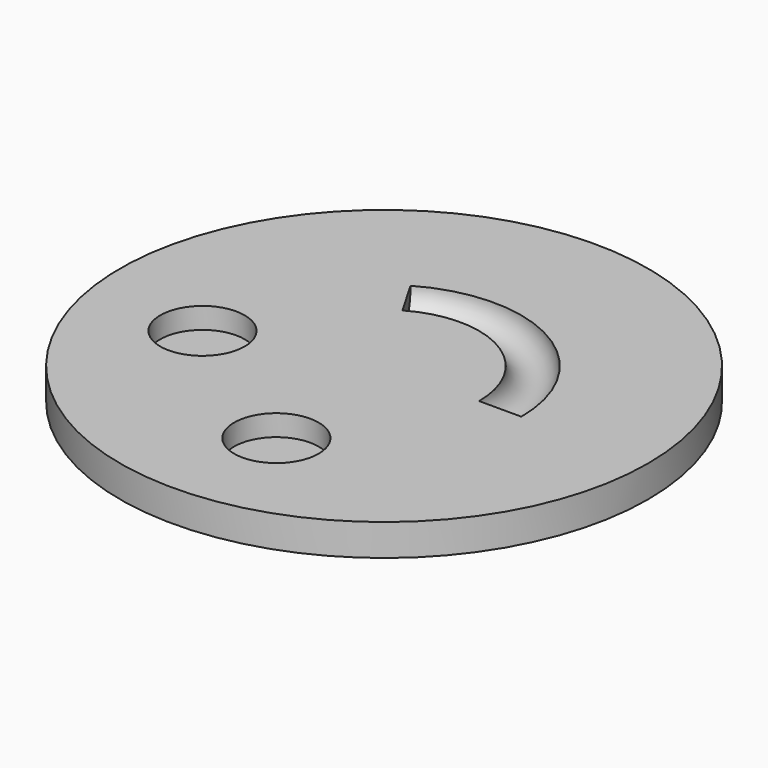
from build123d import *

# Parameters (mm, degrees)
CYLINDER001_R     = 4
CYLINDER001_DEPTH = 10
CYLINDER002_R     = 4
CYLINDER002_DEPTH = 10
TORUS_R           = 2
TORUS_ANGLE       = 120
CYLINDER_R        = 25
CYLINDER_DEPTH    = 3


with BuildPart() as eye:
    # Cylinder001 → Cylinder001 (new body)
    with BuildSketch(Plane(origin=(1, -14, 1), x_dir=(1, 0, 0), z_dir=(0, 0, 1))):
        Circle(CYLINDER001_R)
    extrude(amount=CYLINDER001_DEPTH)


with BuildPart() as eye001:
    # Cylinder002 → Cylinder002 (new body)
    with BuildSketch(Plane(origin=(-14, -4, 1), x_dir=(1, 0, 0), z_dir=(0, 0, 1))):
        Circle(CYLINDER002_R)
    extrude(amount=CYLINDER002_DEPTH)


with BuildPart() as fusion:
    # Torus → Torus (revolve)
    with BuildSketch(Plane(origin=(0, 0, 3), x_dir=(1, 0, 0), z_dir=(0, -1, 0))):
        with Locations((11, 0)):
            Circle(TORUS_R)
    revolve(axis=Axis((0, 0, 3), (0, 0, 1)), revolution_arc=TORUS_ANGLE)

    # Fusion: union eye, eye001
    add(eye.part)
    add(eye001.part)


with BuildPart() as smiley:
    # Cylinder → Cylinder (new body)
    with BuildSketch(Plane.XY):
        Circle(CYLINDER_R)
    extrude(amount=CYLINDER_DEPTH)

    # Cut: cut Fusion
    add(fusion.part, mode=Mode.SUBTRACT)


solid = smiley.part
